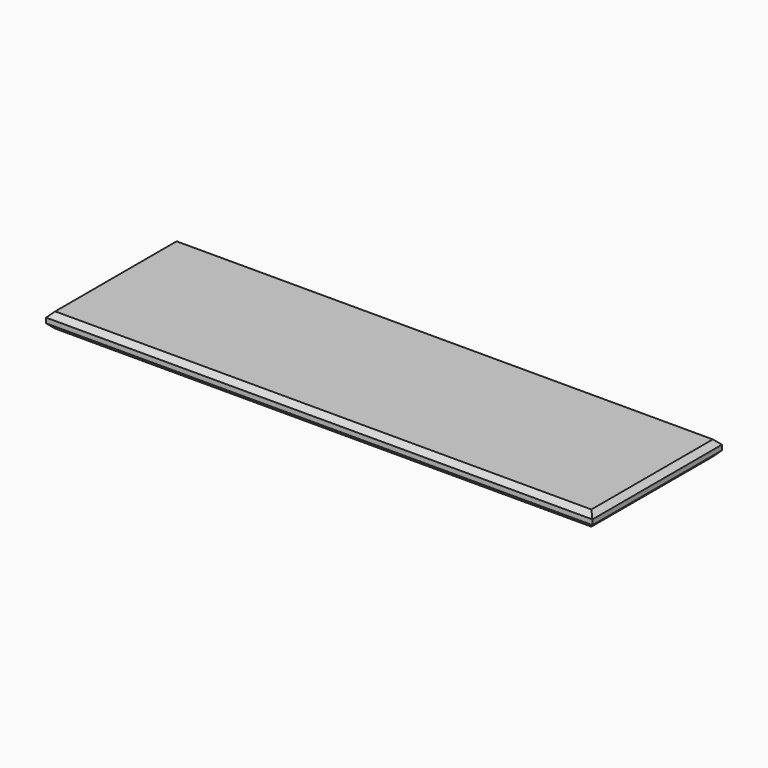
from build123d import *

# Parameters (mm, degrees)
F0_W     = 685.8
F0_H     = 203.2
F1_DEPTH = 19.05
F2_SIZE  = 6.35
F3_SIZE  = 6.35


with BuildPart() as f1:
    # F0 (on Top) → F1 (new body)
    with BuildSketch(Plane.XY):
        with Locations((-124.934961, 0.697705)):
            Rectangle(F0_W, F0_H)
    extrude(amount=F1_DEPTH)

    # F2
    f2_edges = [f1.edges().sort_by_distance(p)[0] for p in [
        (217.965039, 0.697705, 19.05),
        (-124.934961, 102.297705, 19.05),
        (-467.834961, 0.697705, 19.05),
        (-124.934961, -100.902295, 19.05),
    ]]
    chamfer(f2_edges, length=F2_SIZE)

    # F3
    f3_edges = [f1.edges().sort_by_distance(p)[0] for p in [
        (217.965039, 0.697705, 0),
        (-124.934961, 102.297705, 0),
        (-467.834961, 0.697705, 0),
        (-124.934961, -100.902295, 0),
    ]]
    chamfer(f3_edges, length=F3_SIZE)


solid = f1.part
